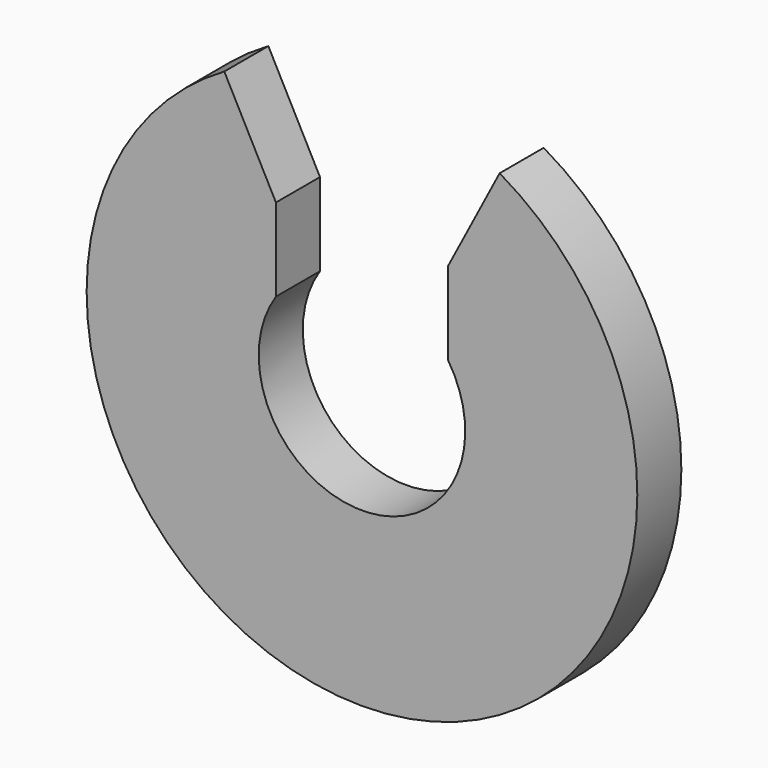
from build123d import *

# Parameters (mm, degrees)
F1_DEPTH = 0.8


with BuildPart() as f1:
    # F0 (on Front) → F1 (new body)
    with BuildSketch(Plane.XZ):
        with BuildLine():
            Line((-1.25, 2.033069), (-2, 3.464102))
            ThreePointArc((-2, 3.464102), (0, -4), (2, 3.464102))
            Line((2, 3.464102), (1.25, 2.033069))
            Line((1.25, 2.033069), (1.25, 0.829156))
            ThreePointArc((1.25, 0.829156), (0, -1.5), (-1.25, 0.829156))
            Line((-1.25, 0.829156), (-1.25, 2.033069))
        make_face()
    extrude(amount=F1_DEPTH)


solid = f1.part
